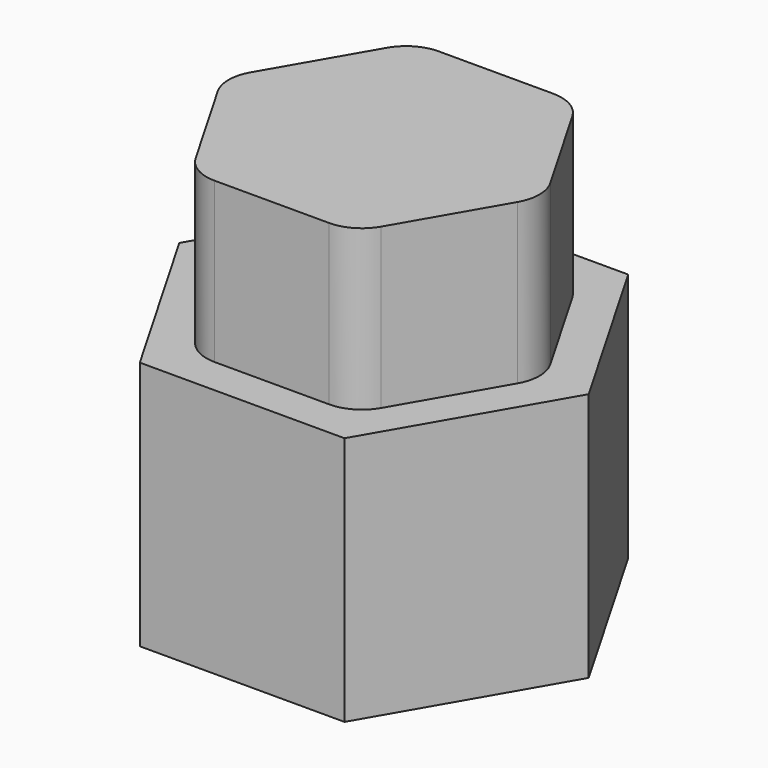
from build123d import *

# Parameters (mm, degrees)
PAD_DEPTH    = 3.9
PAD001_DEPTH = 6.1
SKETCH002_R  = 1.6
POCKET_DEPTH = 4.2


with BuildPart() as part:
    # Sketch → Pad (new body)
    with BuildSketch(Plane.XY):
        with BuildLine():
            Line((-3.66133, 0.49999), (-2.263681, 2.920791))
            ThreePointArc((-1.39765, 3.4208), (-1.897655, 3.286823), (-2.263681, 2.920791))
            Line((-1.39765, 3.4208), (1.39765, 3.4208))
            ThreePointArc((2.263681, 2.920791), (1.897655, 3.286823), (1.39765, 3.4208))
            Line((2.263681, 2.920791), (3.66133, 0.49999))
            ThreePointArc((3.66133, -0.49999), (3.795299, 0), (3.66133, 0.49999))
            Line((3.66133, -0.49999), (2.263681, -2.920791))
            ThreePointArc((1.39765, -3.4208), (1.897655, -3.286823), (2.263681, -2.920791))
            Line((1.39765, -3.4208), (-1.397649, -3.4208))
            ThreePointArc((-2.263681, -2.920791), (-1.897654, -3.286823), (-1.397649, -3.4208))
            Line((-2.263681, -2.920791), (-3.66133, -0.49999))
            ThreePointArc((-3.66133, 0.49999), (-3.795299, 0), (-3.66133, -0.49999))
        make_face()
    extrude(amount=PAD_DEPTH)

    # Sketch001 (on DatumPlane) → Pad001 (join)
    with BuildSketch(Plane(origin=(0, 0, 0), x_dir=(1, 0, 0), z_dir=(0, 0, -1))):
        Polygon((5, 0), (2.5, 4.330127), (-2.5, 4.330127), (-5, 0), (-2.5, -4.330127), (2.5, -4.330127), align=None)
    extrude(amount=PAD001_DEPTH)

    # Sketch002 (on DatumPlane) → Pocket (cut)
    with BuildSketch(Plane(origin=(0, 0, -6.1), x_dir=(1, 0, 0), z_dir=(0, 0, -1))):
        Circle(SKETCH002_R)
    extrude(amount=-POCKET_DEPTH, mode=Mode.SUBTRACT)


with BuildPart() as part_1:
    # Body placement: moved
    add(part.part.moved(Location((0, 0, -3.6))))


solid = part_1.part
